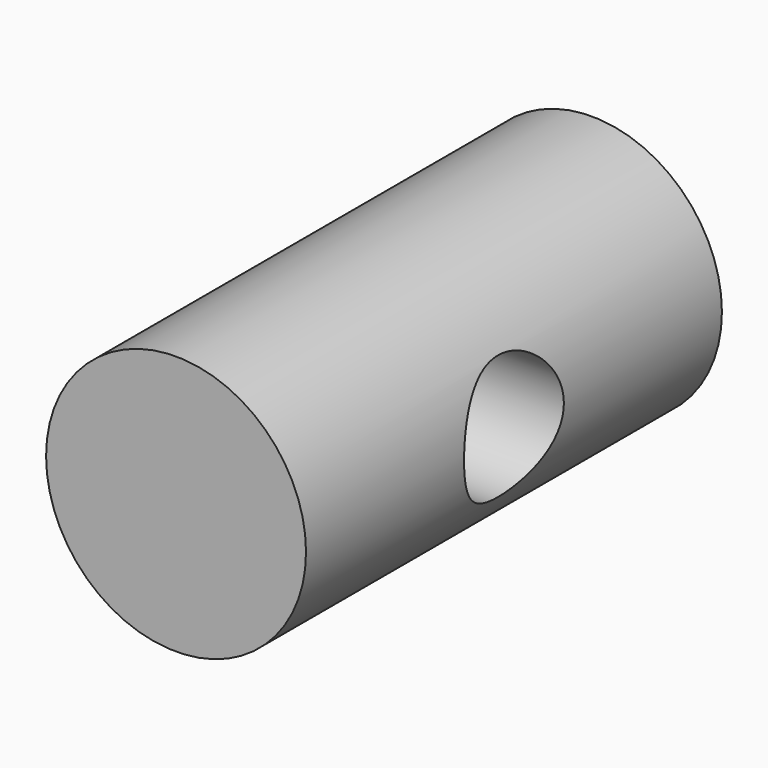
from build123d import *

# Parameters (mm, degrees)
F0_R     = 12.5
F2_DEPTH = 25
F3_D     = 12
F4_D     = 12


with BuildPart() as f2:
    # F0 (on Front) → F2 (new body, symmetric)
    with BuildSketch(Plane.XZ):
        Circle(F0_R)
        Circle(F0_R)
    extrude(amount=F2_DEPTH, both=True)

    # F3 (through all)
    with Locations(Plane(origin=(0, 0, 0), x_dir=(0, 1, 0), z_dir=(-1, 0, 0))):
        with Locations((0, 0)):
            Hole(F3_D / 2)

    # F4 (through all)
    with Locations(Plane.YZ):
        with Locations((0, 0)):
            Hole(F4_D / 2)


solid = f2.part
